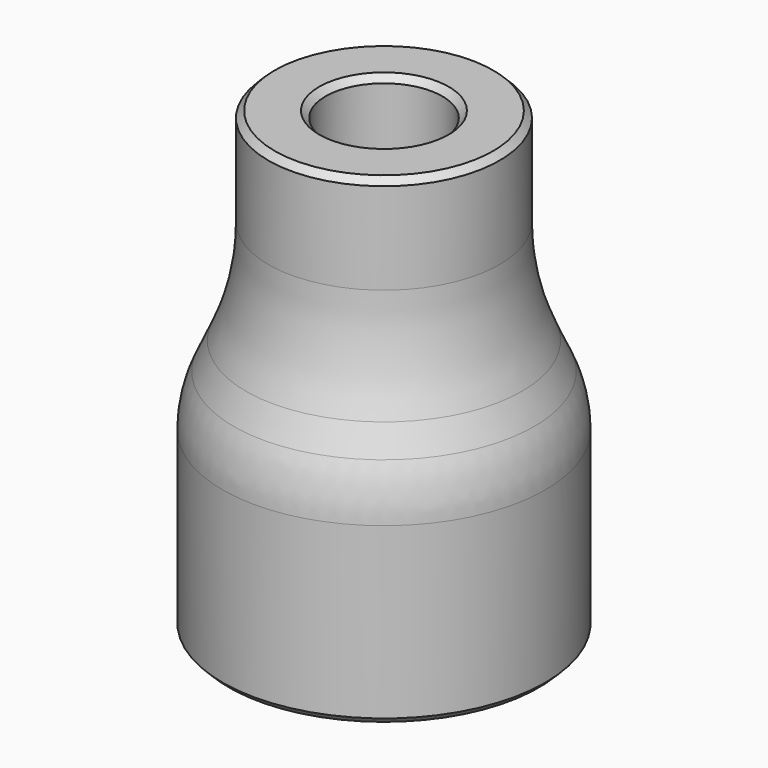
from build123d import *

# Parameters (mm, degrees)
F0_W    = 2.25
F0_H    = 6
F0_H_2  = 8
F2_SIZE = 0.25
F3_SIZE = 0.25
F4_R    = 10
F5_R    = 5


with BuildPart() as f1:
    # F0 (on Front) → F1 (revolve)
    with BuildSketch(Plane.XZ):
        with Locations((-3.425, 15)):
            Rectangle(F0_W, F0_H)
        Polygon((-6.35, 8), (-4.1, 8), (-2.3, 12), (-4.55, 12), align=None)
        with Locations((-5.225, 4)):
            Rectangle(F0_W, F0_H_2)
    revolve(axis=Axis((0, 0, 11.346421), (0, 0, -1)))

    # F2
    f2_edges = [f1.edges().sort_by_distance(p)[0] for p in [
        (6.35, 0, 0),
        (4.1, 0, 0),
    ]]
    chamfer(f2_edges, length=F2_SIZE)

    # F3
    f3_edges = [f1.edges().sort_by_distance(p)[0] for p in [
        (2.3, 0, 18),
        (4.55, 0, 18),
    ]]
    chamfer(f3_edges, length=F3_SIZE)

    # F4
    f4_edges = [f1.edges().sort_by_distance(p)[0] for p in [
        (4.55, 0, 12),
    ]]
    fillet(f4_edges, radius=F4_R)

    # F5
    f5_edges = [f1.edges().sort_by_distance(p)[0] for p in [
        (6.35, 0, 8),
    ]]
    fillet(f5_edges, radius=F5_R)


solid = f1.part
